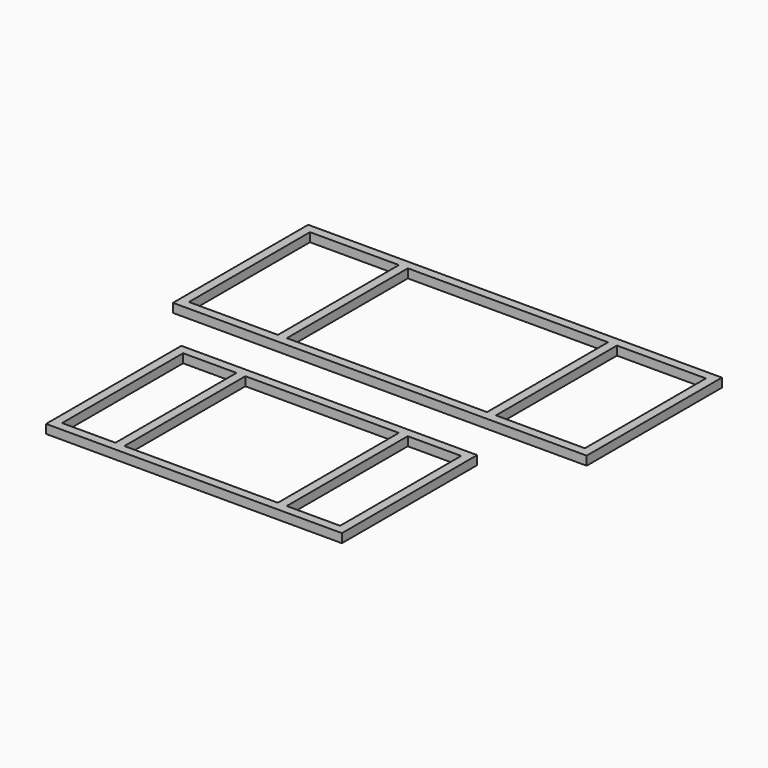
from build123d import *

# Parameters (mm, degrees)
F0_W     = 665
F0_H     = 380
F0_W_2   = 120
F0_H_2   = 340
F0_W_3   = 345
F2_DEPTH = 10
F1_W     = 930
F1_H     = 380
F1_W_2   = 200
F1_H_2   = 340
F1_W_3   = 450
F3_DEPTH = 20


with BuildPart() as f2:
    # F0 (on Top) → F2 (new body, symmetric)
    with BuildSketch(Plane.XY):
        with Locations((172.5, 67.015941)):
            Rectangle(F0_W, F0_H)
        with Locations((-80, 67.015941)):
            Rectangle(F0_W_2, F0_H_2, mode=Mode.SUBTRACT)
        with Locations((172.5, 67.015941)):
            Rectangle(F0_W_3, F0_H_2, mode=Mode.SUBTRACT)
        with Locations((425, 67.015941)):
            Rectangle(F0_W_2, F0_H_2, mode=Mode.SUBTRACT)
    extrude(amount=F2_DEPTH, both=True)


with BuildPart() as f3:
    # F1 (on Top) → F3 (new body)
    with BuildSketch(Plane.XY):
        with Locations((203.461135, 550.392697)):
            Rectangle(F1_W, F1_H)
        with Locations((-141.538865, 550.392697)):
            Rectangle(F1_W_2, F1_H_2, mode=Mode.SUBTRACT)
        with Locations((203.461135, 550.392697)):
            Rectangle(F1_W_3, F1_H_2, mode=Mode.SUBTRACT)
        with Locations((548.461135, 550.392697)):
            Rectangle(F1_W_2, F1_H_2, mode=Mode.SUBTRACT)
    extrude(amount=F3_DEPTH)


solid = Compound([f2.part, f3.part])
